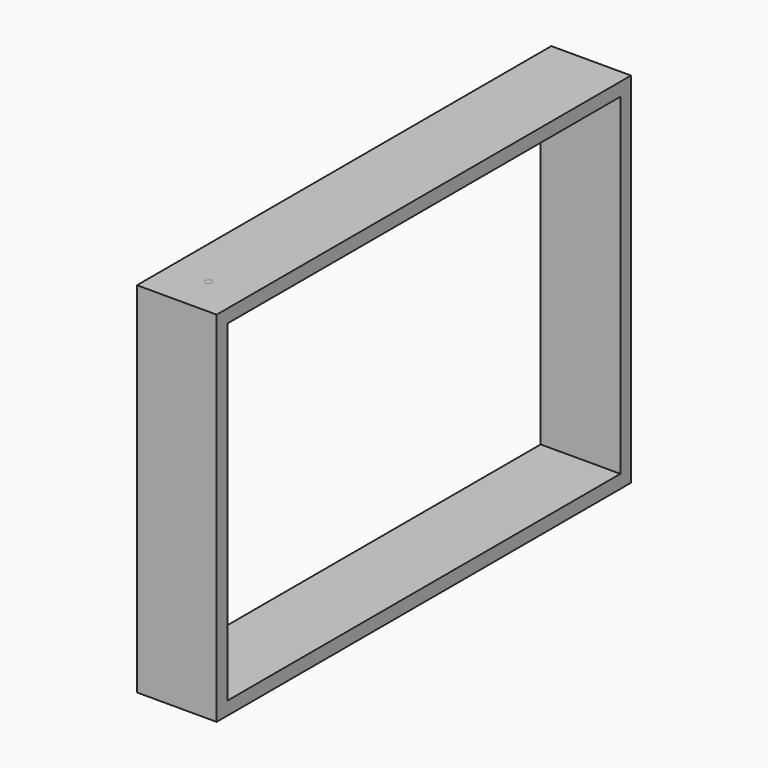
from build123d import *

# Parameters (mm, degrees)
F0_W          = 495.3
F0_H          = 342.9
F0_W_2        = 469.9
F0_H_2        = 317.5
F1_DEPTH      = 38.1
F2_R          = 3.175
F3_DEPTH      = 171.4754
F3_DEPTH_BACK = 171.4754


with BuildPart() as f1:
    # F0 (on Right) → F1 (new body, symmetric)
    with BuildSketch(Plane.YZ):
        Rectangle(F0_W, F0_H)
        Rectangle(F0_W_2, F0_H_2, mode=Mode.SUBTRACT)
    extrude(amount=F1_DEPTH, both=True)

    # F2 (on Top) → F3 (join, two sides)
    with BuildSketch(Plane.XY) as f3_sk:
        with Locations((0, -209.8783)):
            Circle(F2_R)
    extrude(amount=F3_DEPTH)
    extrude(f3_sk.sketch, amount=-F3_DEPTH_BACK)


solid = f1.part
